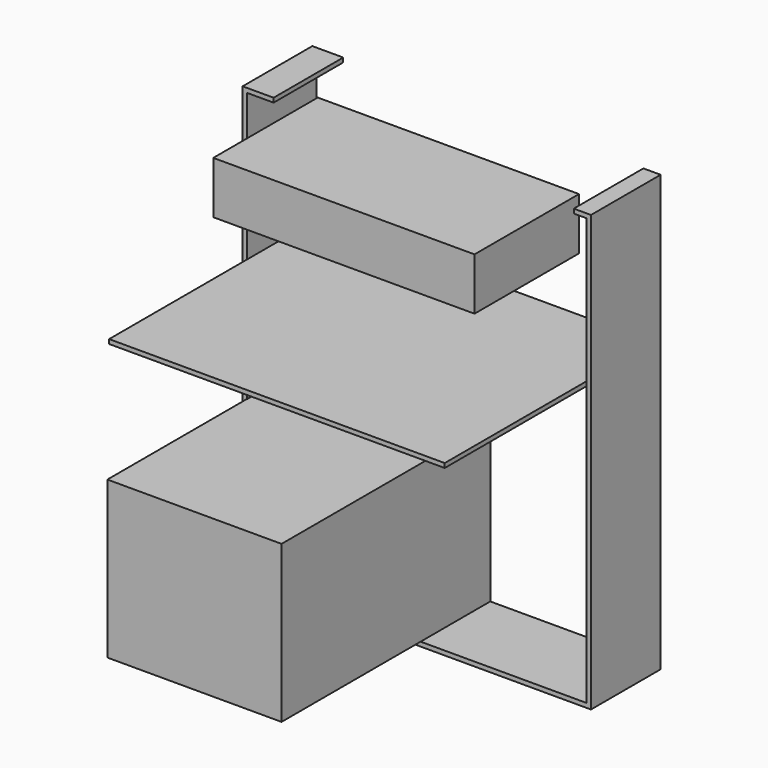
from build123d import *

# Parameters (mm, degrees)
F2_DEPTH = 25.4
F1_W     = 50.8
F1_H     = 45.72
F3_DEPTH = 76.2
F4_W     = 97.8916
F4_H     = 1.27
F5_DEPTH = 76.2
F6_W     = 76.2
F6_H     = 15.24
F7_DEPTH = 38.1


with BuildPart() as f2:
    # F0 (on Front) → F2 (new body)
    with BuildSketch(Plane.XZ):
        Polygon((-47.642849, 62.858369), (-56.667452, 62.858369), (-56.667452, -64.141631), (44.932548, -64.141631), (44.932548, 62.858369), (39.915446, 62.858369), (39.915446, 61.588369), (43.662548, 61.588369), (43.662548, -62.871631), (-55.397452, -62.871631), (-55.397452, 61.588369), (-47.642849, 61.588369), align=None)
    extrude(amount=F2_DEPTH)

    # F1 (on Front) → F3 (join)
    with BuildSketch(Plane.XZ):
        with Locations((-30.085323, -39.94899)):
            Rectangle(F1_W, F1_H)
    extrude(amount=F3_DEPTH)


with BuildPart() as f5:
    # F4 (on Front) → F5 (new body)
    with BuildSketch(Plane.XZ):
        with Locations((-6.028768, 18.510638)):
            Rectangle(F4_W, F4_H)
    extrude(amount=F5_DEPTH)


with BuildPart() as f7:
    # F6 (on Front) → F7 (new body)
    with BuildSketch(Plane.XZ):
        with Locations((-16.976223, 42.53913)):
            Rectangle(F6_W, F6_H)
    extrude(amount=F7_DEPTH)


solid = Compound([f2.part, f5.part, f7.part])
